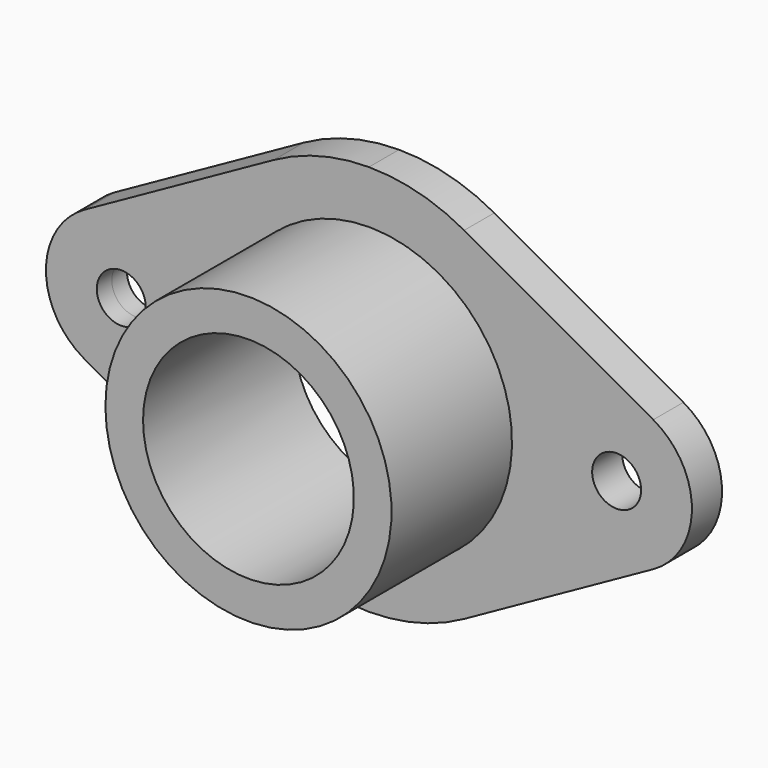
from build123d import *

# Parameters (mm, degrees)
F0_R     = 3.25
F1_DEPTH = 2.5
F2_R     = 19
F2_R_2   = 14
F3_DEPTH = 25


with BuildPart() as f1:
    # F0 (on Front) → F1 (new body, symmetric)
    with BuildSketch(Plane.XZ):
        with BuildLine():
            ThreePointArc((0, -19), (-19, 0), (0, 19))
            Line((0, 19), (0, 26))
            ThreePointArc((0, 26), (-6.532913, 25.165871), (-12.64665, 22.717004))
            Line((-12.64665, 22.717004), (-37.758184, 8.737309))
            ThreePointArc((-37.758184, 8.737309), (-42.893974, 0.047595), (-37.841132, -8.690613))
            Line((-37.841132, -8.690613), (-12.647007, -22.716805))
            ThreePointArc((-12.647007, -22.716805), (-6.533111, -25.165819), (0, -26))
            Line((0, -26), (0, -19))
        make_face()
        with Locations((-32.894088, 0)):
            Circle(F0_R, mode=Mode.SUBTRACT)
        with BuildLine():
            Line((0, 26), (0, 19))
            ThreePointArc((0, 19), (19, 0), (0, -19))
            Line((0, -19), (0, -26))
            ThreePointArc((0, -26), (6.533111, -25.165819), (12.647007, -22.716805))
            Line((12.647007, -22.716805), (37.841132, -8.690613))
            ThreePointArc((37.841132, -8.690613), (42.893974, 0.047595), (37.758184, 8.737309))
            Line((37.758184, 8.737309), (12.64665, 22.717004))
            ThreePointArc((12.64665, 22.717004), (6.532913, 25.165871), (0, 26))
        make_face()
        with Locations((32.894088, 0)):
            Circle(F0_R, mode=Mode.SUBTRACT)
    extrude(amount=F1_DEPTH, both=True)


with BuildPart() as f3:
    # F2 (on face) → F3 (new body)
    with BuildSketch(Plane(origin=(0, 2.5, 0), x_dir=(-1, 0, 0), z_dir=(0, 1, 0))):
        Circle(F2_R)
        Circle(F2_R_2, mode=Mode.SUBTRACT)
    extrude(amount=-F3_DEPTH)


solid = Compound([f1.part, f3.part])
